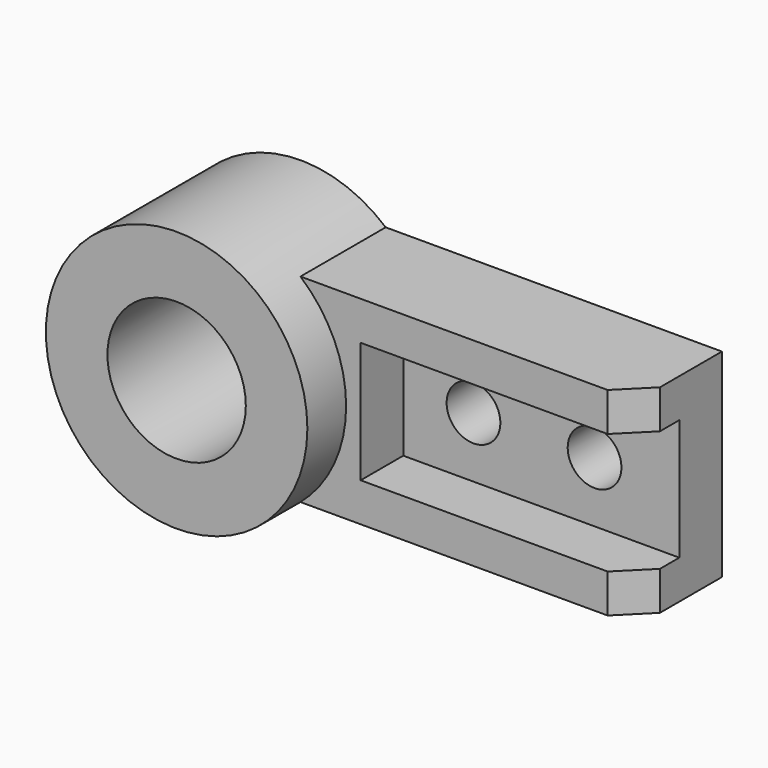
from build123d import *

# Parameters (mm, degrees)
F1_DEPTH  = 44
F2_R      = 54
F2_R_2    = 28.575
F3_DEPTH  = 64
F4_W      = 114
F4_H      = 50
F5_DEPTH  = 22
F6_R      = 11.1
F7_DEPTH  = 22.001
F9_DEPTH  = 64.001
F11_DEPTH = 95.001


with BuildPart() as f1:
    # F0 (on Front) → F1 (new body)
    with BuildSketch(Plane.XZ):
        with BuildLine():
            ThreePointArc((35.1425667816, 41), (49.0596504584, 22.5643678594), (54, 0))
            Line((54, 0), (174, 0))
            Line((174, 0), (174, 41))
            Line((174, 41), (35.1425667816, 41))
        make_face()
        with BuildLine():
            Line((174, 0), (54, 0))
            ThreePointArc((54, 0), (49.0596504584, -22.5643678594), (35.1425667816, -41))
            Line((35.1425667816, -41), (174, -41))
            Line((174, -41), (174, 0))
        make_face()
    extrude(amount=F1_DEPTH)

    # F2 (on Front) → F3 (join)
    with BuildSketch(Plane.XZ):
        Circle(F2_R)
        Circle(F2_R_2, mode=Mode.SUBTRACT)
        Circle(F2_R_2)
    extrude(amount=F3_DEPTH)

    # F4 (on face) → F5 (cut)
    with BuildSketch(Plane.XZ.offset(44)):
        with Locations((117, 0)):
            Rectangle(F4_W, F4_H)
    extrude(amount=-F5_DEPTH, mode=Mode.SUBTRACT)

    # F6 (on face) → F7 (cut, through all)
    with BuildSketch(Plane.XZ.offset(22)):
        with BuildLine():
            Line((139, 0), (150.1, 0))
            ThreePointArc((150.1, 0), (139, 11.1), (127.9, 0))
            Line((127.9, 0), (139, 0))
        make_face()
        with BuildLine():
            ThreePointArc((127.9, 0), (139, -11.1), (150.1, 0))
            Line((150.1, 0), (139, 0))
            Line((139, 0), (127.9, 0))
        make_face()
        with Locations((89, 0)):
            Circle(F6_R)
    extrude(amount=-F7_DEPTH, mode=Mode.SUBTRACT)

    # F8 (on face) → F9 (cut, through all)
    with BuildSketch(Plane.XZ.offset(64)):
        with BuildLine():
            ThreePointArc((-28.575, 0), (0, -28.575), (28.575, 0))
            ThreePointArc((28.575, 0), (0, 28.575), (-28.575, 0))
        make_face()
    extrude(amount=-F9_DEPTH, mode=Mode.SUBTRACT)

    # F10 (on face) → F11 (cut, through all)
    with BuildSketch(Plane.XY.offset(41)):
        Polygon((174, -32), (162, -44), (174, -44), align=None)
    extrude(amount=-F11_DEPTH, mode=Mode.SUBTRACT)


solid = f1.part
